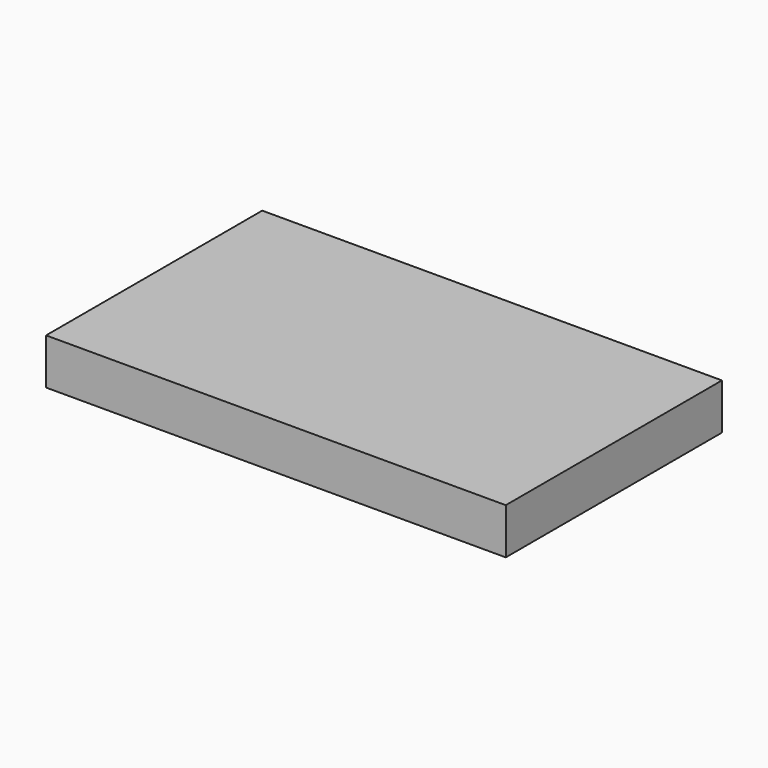
from build123d import *

# Parameters (mm, degrees)
F1_DEPTH = 15.9
F2_DEPTH = 13.9
F3_DEPTH = 1


with BuildPart() as f1:
    # F0 (on Top) → F1 (new body)
    with BuildSketch(Plane.XY):
        Polygon((-84.823024, -30.93472), (-84.823024, 44.51528), (-86.823024, 44.51528), (-86.823024, -48.93472), (72.176976, -48.93472), (72.176976, 44.51528), (70.176976, 44.51528), (70.176976, -30.93472), (70.176976, -46.93472), (58.176976, -46.93472), (-72.823024, -46.93472), (-84.823024, -46.93472), align=None)
        Polygon((-72.823024, -46.93472), (-84.823024, -30.93472), (-84.823024, -46.93472), align=None)
        Polygon((70.176976, -46.93472), (70.176976, -30.93472), (58.176976, -46.93472), align=None)
        Polygon((70.176976, 44.51528), (-84.823024, 44.51528), (-84.823024, -30.93472), (-72.823024, -46.93472), (58.176976, -46.93472), (70.176976, -30.93472), align=None)
    extrude(amount=F1_DEPTH)

    # F0 (on Top) → F2 (cut)
    with BuildSketch(Plane.XY):
        Polygon((-72.823024, -46.93472), (-84.823024, -30.93472), (-84.823024, -46.93472), align=None)
        Polygon((70.176976, 44.51528), (-84.823024, 44.51528), (-84.823024, -30.93472), (-72.823024, -46.93472), (58.176976, -46.93472), (70.176976, -30.93472), align=None)
        Polygon((70.176976, -46.93472), (70.176976, -30.93472), (58.176976, -46.93472), align=None)
    extrude(amount=F2_DEPTH, mode=Mode.SUBTRACT)

    # F0 (on Top) → F3 (join)
    with BuildSketch(Plane.XY):
        Polygon((-72.823024, -46.93472), (-84.823024, -30.93472), (-84.823024, -46.93472), align=None)
        Polygon((70.176976, -46.93472), (70.176976, -30.93472), (58.176976, -46.93472), align=None)
    extrude(amount=F3_DEPTH)


solid = f1.part
